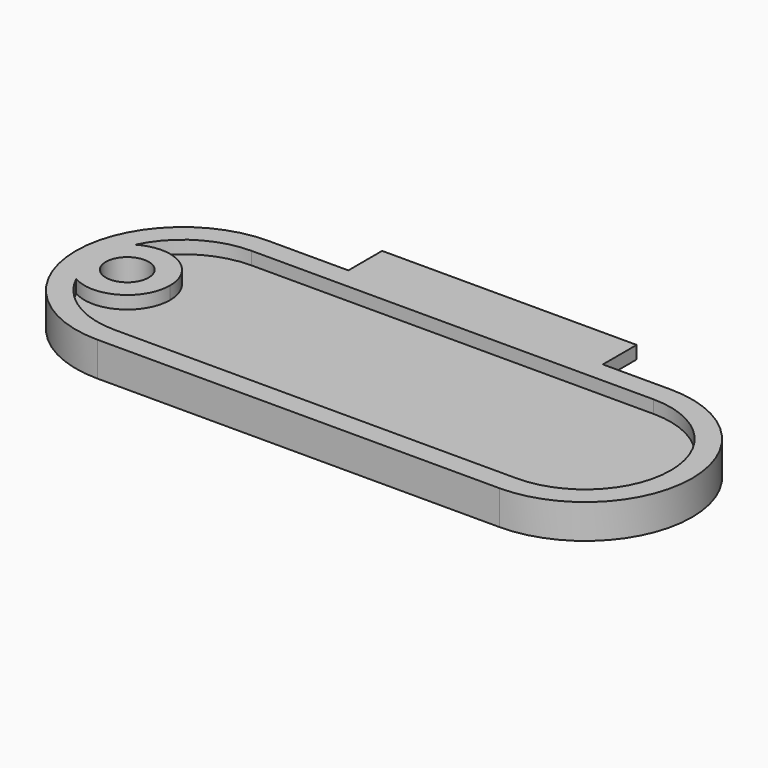
from build123d import *

# Parameters (mm, degrees)
F1_DEPTH = 4
F3_DEPTH = 1.5
F5_DEPTH = 1.5
F6_R     = 2.5
F7_DEPTH = 25
F9_DEPTH = 1.5


with BuildPart() as f1:
    # F0 (on Top) → F1 (new body)
    with BuildSketch(Plane.XY):
        with BuildLine():
            ThreePointArc((12.5, 25), (0, 12.5), (12.5, 0))
            Line((12.5, 0), (59.5057010651, 0))
            ThreePointArc((59.5057010651, 0), (72.0057010651, 12.5), (59.5057010651, 25))
            Line((59.5057010651, 25), (12.5, 25))
        make_face()
    extrude(amount=F1_DEPTH)

    # F2 (on face) → F3 (cut)
    with BuildSketch(Plane.XY.offset(4)):
        with BuildLine():
            Line((59.5057010651, 22.5), (12.5, 22.5))
            ThreePointArc((12.5, 22.5), (2.5, 12.5), (12.5, 2.5))
            Line((12.5, 2.5), (59.5057010651, 2.5))
            ThreePointArc((59.5057010651, 2.5), (69.5057010651, 12.5), (59.5057010651, 22.5))
        make_face()
    extrude(amount=-F3_DEPTH, mode=Mode.SUBTRACT)

    # F4 (on face) → F5 (join)
    with BuildSketch(Plane.XY.offset(2.5)):
        with BuildLine():
            ThreePointArc((3.4807692308, 8.1810329555), (8.4903660528, 8.1643250902), (11, 12.5))
            ThreePointArc((11, 12.5), (8.4903660528, 16.8356749098), (3.4807692308, 16.8189670445))
            ThreePointArc((3.4807692308, 16.8189670445), (2.5, 12.5), (3.4807692308, 8.1810329555))
        make_face()
    extrude(amount=F5_DEPTH)

    # F6 (on face) → F7 (cut)
    with BuildSketch(Plane.XY.offset(4)):
        with Locations((6, 12.5)):
            Circle(F6_R)
    extrude(amount=-F7_DEPTH, mode=Mode.SUBTRACT)

    # F8 (on face) → F9 (join)
    with BuildSketch(Plane.XY.offset(2.5)):
        with BuildLine():
            Line((51.5800477753, 23.6497587322), (51.5800477753, 29.9388212322))
            Line((51.5800477753, 29.9388212322), (21.8339540253, 29.9388212322))
            Line((21.8339540253, 29.9388212322), (21.8339540253, 24.7695503988))
            Line((21.8339540253, 24.7695503988), (23.6409601852, 22.5))
            Line((23.6409601852, 22.5), (29.7308289031, 22.5))
            add(Edge.make_bspline(
                [(28.4485373586, 23.8125191488), (29.2209345705, 23.0401219369), (29.7308289031, 22.5)],
                knots=[0, 0, 0, 0.4943342156, 0.4943342156, 0.4943342156], degree=2))
            Line((28.4485373586, 23.8125191488), (31.5409852753, 23.7148628988))
            Line((31.5409852753, 23.7148628988), (34.3665061086, 23.6497587322))
            Line((34.3665061086, 23.6497587322), (51.5800477753, 23.6497587322))
        make_face()
    extrude(amount=F9_DEPTH)


solid = f1.part
